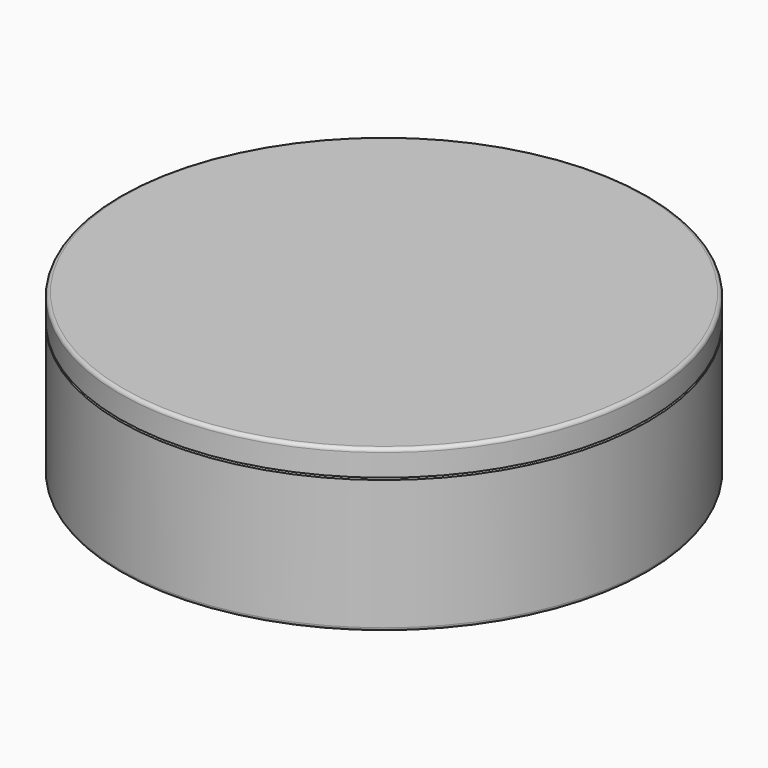
from build123d import *

# Parameters (mm, degrees)
F2_R = 0.5
F5_R = 0.5


with BuildPart() as f1:
    # F0 (on Front) → F1 (revolve)
    with BuildSketch(Plane.XZ):
        Polygon((0, 0.5), (0, 0), (37, 0), (37, 18.711325), (36.5, 19), (36.5, 22), (36, 22), (36, 18.711325), (36.5, 18.42265), (36.5, 0.5), align=None)
    revolve(axis=Axis((0, 0, 11), (0, 0, 1)))

    # F2
    f2_edges = [f1.edges().sort_by_distance(p)[0] for p in [
        (-37, 0, 0),
    ]]
    fillet(f2_edges, radius=F2_R)


with BuildPart() as f4:
    # F3 (on Front) → F4 (revolve)
    with BuildSketch(Plane.XZ):
        Polygon((0, 22.1), (36.5, 22.1), (36.5, 19), (37, 19), (37, 22.6), (0, 22.6), align=None)
    revolve(axis=Axis((0, 0, 11.3), (0, 0, 1)))

    # F5
    f5_edges = [f4.edges().sort_by_distance(p)[0] for p in [
        (-37, 0, 22.6),
    ]]
    fillet(f5_edges, radius=F5_R)


solid = Compound([f1.part, f4.part])
